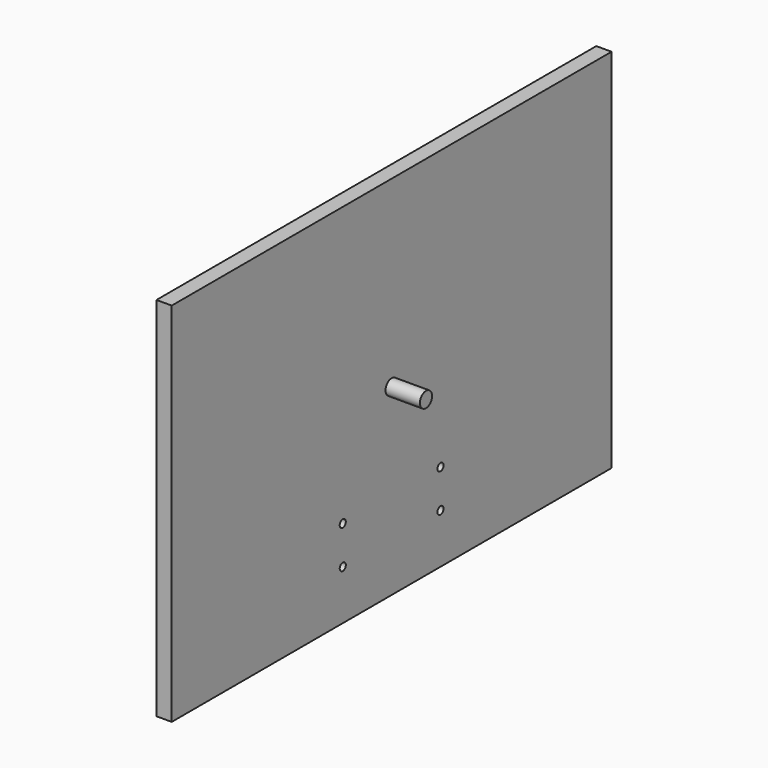
from build123d import *

# Parameters (mm, degrees)
F0_W     = 914.4
F0_H     = 609.6
F1_DEPTH = 25.4
F2_R     = 12.7
F3_DEPTH = 57.15
F5_D     = 12.7


with BuildPart() as f1:
    # F0 (on Right) → F1 (new body)
    with BuildSketch(Plane.YZ):
        Rectangle(F0_W, F0_H)
    extrude(amount=F1_DEPTH)

    # F2 (on face) → F3 (join)
    with BuildSketch(Plane.YZ.offset(25.4)):
        Circle(F2_R)
    extrude(amount=F3_DEPTH)

    # F5 (through all)
    with Locations(Plane.YZ.offset(25.4)):
        with Locations((-101.6, -158.75), (101.6, -158.75), (101.6, -222.25), (-101.6, -222.25)):
            Hole(F5_D / 2)


solid = f1.part
